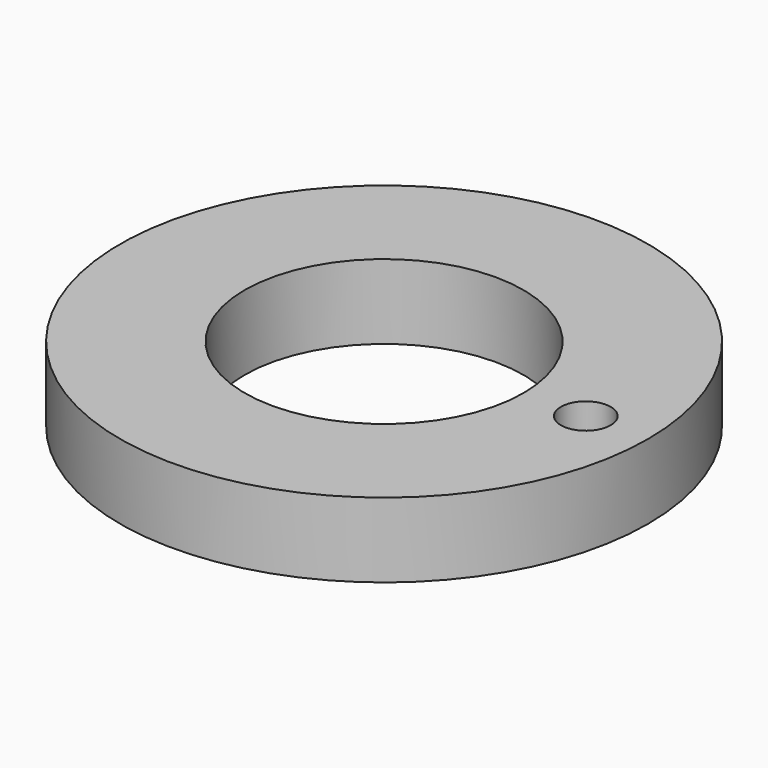
from build123d import *

# Parameters (mm, degrees)
CYLINDER_R      = 10.6
CYLINDER_DEPTH  = 3
SKETCH_R        = 5.6
POCKET_DEPTH    = 3
SKETCH001_R     = 1
POCKET001_DEPTH = 3


with BuildPart() as part:
    # Cylinder → Cylinder (new body)
    with BuildSketch(Plane.XY):
        Circle(CYLINDER_R)
    extrude(amount=CYLINDER_DEPTH)

    # Sketch → Pocket (cut)
    with BuildSketch(Plane.XY.offset(3)):
        Circle(SKETCH_R)
    extrude(amount=-POCKET_DEPTH, mode=Mode.SUBTRACT)

    # Sketch001 → Pocket001 (cut)
    with BuildSketch(Plane.XY.offset(3)):
        with Locations((8.1, 0)):
            Circle(SKETCH001_R)
    extrude(amount=-POCKET001_DEPTH, mode=Mode.SUBTRACT)


solid = part.part
